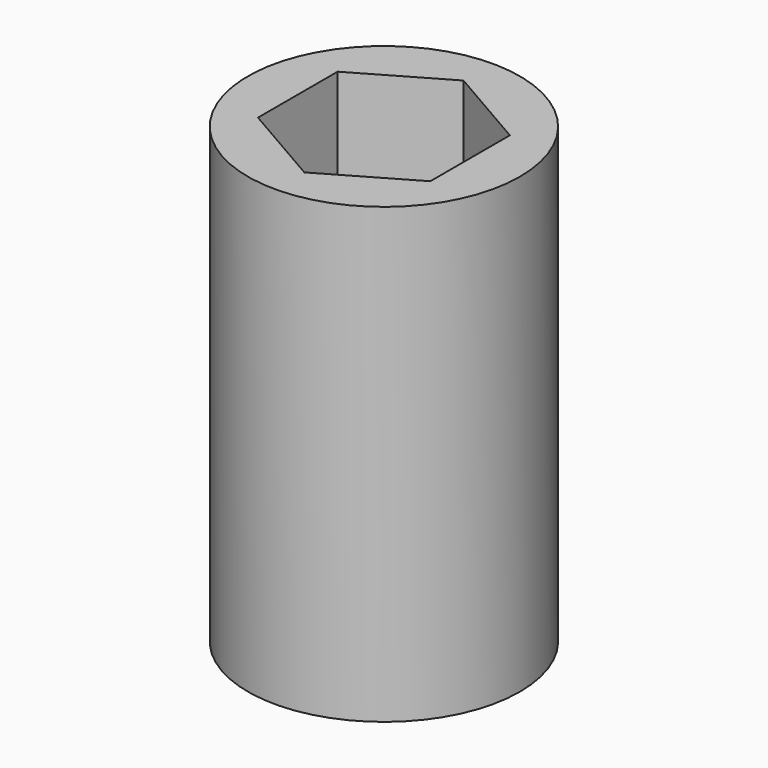
from build123d import *

# Parameters (mm, degrees)
F0_R     = 15
F1_DEPTH = 50
F3_DEPTH = 50.001
F4_DEPTH = 20
F6_DEPTH = 15


with BuildPart() as f1:
    # F0 (on Top) → F1 (new body)
    with BuildSketch(Plane.XY):
        Circle(F0_R)
    extrude(amount=F1_DEPTH)

    # F2 (on Top) → F3 (cut, through all)
    with BuildSketch(Plane.XY):
        with BuildLine():
            ThreePointArc((6, 0), (4.242641, 4.242641), (0, 6))
            ThreePointArc((0, 6), (-4.242641, 4.242641), (-6, 0))
            ThreePointArc((-6, 0), (-4.242641, -4.242641), (0, -6))
            ThreePointArc((0, -6), (4.242641, -4.242641), (6, 0))
        make_face()
    extrude(amount=F3_DEPTH, mode=Mode.SUBTRACT)

    # F2 (on Top) → F4 (cut)
    with BuildSketch(Plane.XY):
        with BuildLine():
            Line((6, 0), (6, 6))
            Line((6, 6), (0, 6))
            ThreePointArc((0, 6), (4.242641, 4.242641), (6, 0))
        make_face()
        with BuildLine():
            ThreePointArc((-6, 0), (-4.242641, 4.242641), (0, 6))
            Line((0, 6), (-6, 6))
            Line((-6, 6), (-6, 0))
        make_face()
        with BuildLine():
            Line((6, -6), (6, 0))
            ThreePointArc((6, 0), (4.242641, -4.242641), (0, -6))
            Line((0, -6), (6, -6))
        make_face()
        with BuildLine():
            ThreePointArc((0, -6), (-4.242641, -4.242641), (-6, 0))
            Line((-6, 0), (-6, -6))
            Line((-6, -6), (0, -6))
        make_face()
    extrude(amount=F4_DEPTH, mode=Mode.SUBTRACT)

    # F5 (on face) → F6 (cut)
    with BuildSketch(Plane.XY.offset(50)):
        Polygon((9.5, 5.484828), (0, 10.969655), (-9.5, 5.484828), (-9.5, -5.484828), (0, -10.969655), (9.5, -5.484828), align=None)
    extrude(amount=-F6_DEPTH, mode=Mode.SUBTRACT)


solid = f1.part
